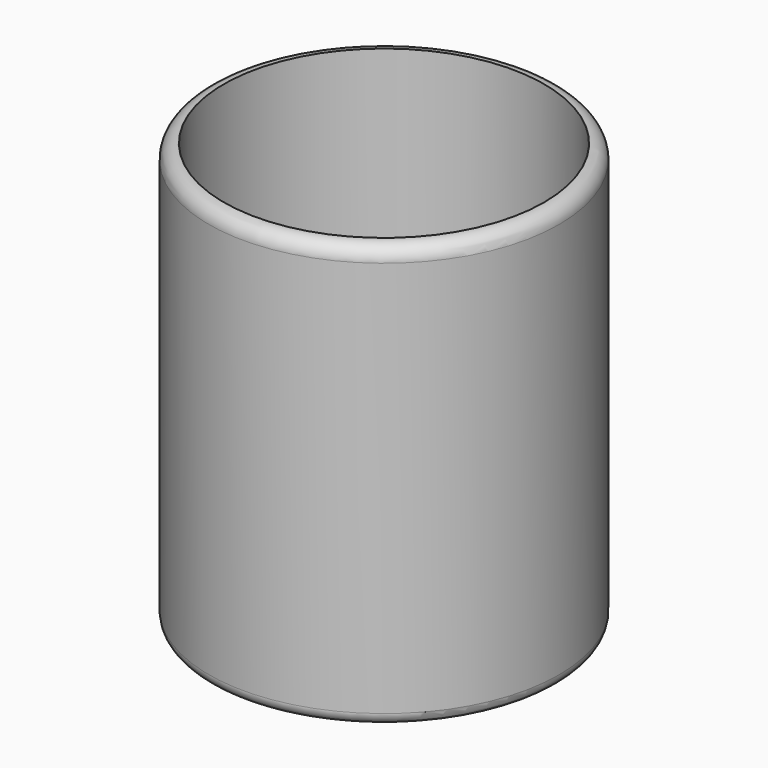
from build123d import *

# Parameters (mm, degrees)
SKETCH_R     = 14.5
PAD_DEPTH    = 35
SKETCH001_R  = 13.25
POCKET_DEPTH = 30
FILLET_R     = 1
FILLET001_R  = 1.2


with BuildPart() as part:
    # Sketch → Pad (new body)
    with BuildSketch(Plane.XY):
        Circle(SKETCH_R)
    extrude(amount=PAD_DEPTH)

    # Sketch001 (on Face3 of Pad) → Pocket (cut)
    with BuildSketch(Plane.XY.offset(35)):
        Circle(SKETCH001_R)
    extrude(amount=-POCKET_DEPTH, mode=Mode.SUBTRACT)

    # Fillet
    fillet_edges = [part.edges().sort_by_distance(p)[0] for p in [
        (-14.5, 0, 0),
    ]]
    fillet(fillet_edges, radius=FILLET_R)

    # Fillet001
    fillet001_edges = [part.edges().sort_by_distance(p)[0] for p in [
        (-14.5, 0, 35),
    ]]
    fillet(fillet001_edges, radius=FILLET001_R)


solid = part.part
